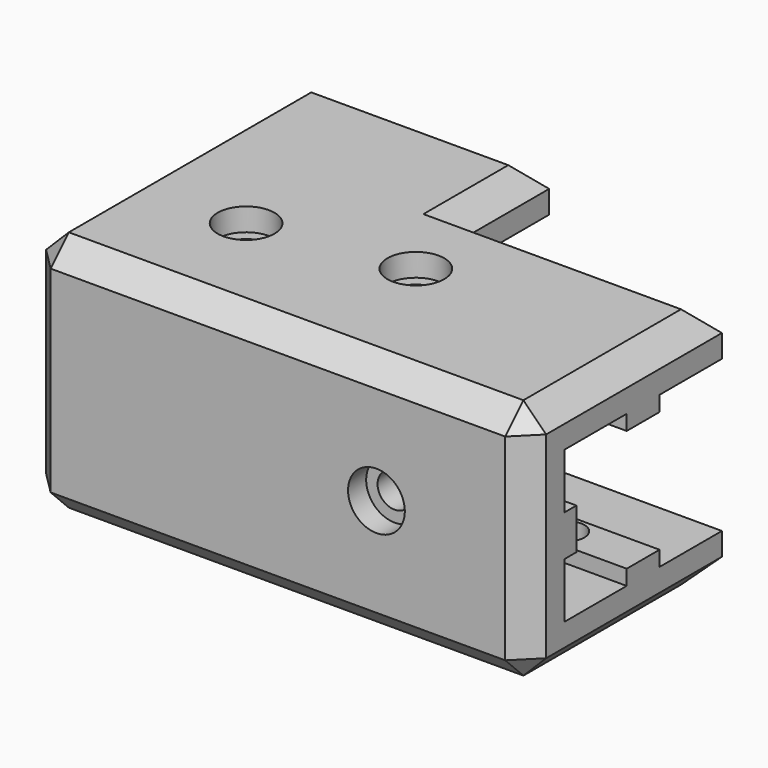
from build123d import *

# Parameters (mm, degrees)
F1_DEPTH  = 6
F3_DEPTH  = 20
F5_DEPTH  = 6
F7_DEPTH  = 40
F9_DEPTH  = 40
F10_R     = 2.25
F11_DEPTH = 8
F12_R     = 2.25
F13_DEPTH = 8
F14_R     = 2.25
F15_DEPTH = 8
F16_R     = 2.25
F17_DEPTH = 8
F18_R     = 3.75
F19_DEPTH = 3
F20_R     = 3.75
F21_DEPTH = 3
F22_R     = 3.75
F23_DEPTH = 3
F24_R     = 3.75
F25_DEPTH = 3
F26_SIZE  = 3


with BuildPart() as f1:
    # F0 (on Top) → F1 (new body)
    with BuildSketch(Plane.XY):
        Polygon((26, 40), (3.85853, 40), (-6, 40), (-6, -6), (60, -6), (60, 26), (26, 26), align=None)
    extrude(amount=F1_DEPTH)

    # F2 (on face) → F3 (join)
    with BuildSketch(Plane.XY.offset(6)):
        Polygon((0, 40), (-6, 40), (-6, -6), (60, -6), (60, 0), (0, 0), align=None)
    extrude(amount=F3_DEPTH)

    # F4 (on face) → F5 (join)
    with BuildSketch(Plane.XY.offset(26)):
        Polygon((-6, 40), (-6, -6), (60, -6), (60, 26), (26, 26), (26, 40), align=None)
    extrude(amount=F5_DEPTH)

    # F6 (on face) → F7 (join)
    with BuildSketch(Plane.YZ.offset(60)):
        Polygon((15.71, 26), (13, 26), (10.29, 26), (10.29, 24), (15.71, 24), align=None)
        Polygon((10.29, 6), (13, 6), (15.71, 6), (15.71, 8), (10.29, 8), align=None)
        Polygon((0, 18.71), (0, 16), (0, 13.29), (2, 13.29), (2, 18.71), align=None)
    extrude(amount=-F7_DEPTH)

    # F8 (on face) → F9 (join)
    with BuildSketch(Plane(origin=(0, 40, 0), x_dir=(-1, 0, 0), z_dir=(0, 1, 0))):
        Polygon((0, 13.29), (0, 16), (0, 18.71), (-2, 18.71), (-2, 13.29), align=None)
        Polygon((-7.29, 26), (-10, 26), (-12.71, 26), (-12.71, 24), (-7.29, 24), align=None)
        Polygon((-12.71, 6), (-10, 6), (-7.29, 6), (-7.29, 8), (-12.71, 8), align=None)
    extrude(amount=-F9_DEPTH)

    # F10 (on face) → F11 (cut, through all)
    with BuildSketch(Plane(origin=(0, 0, 0), x_dir=(1, 0, 0), z_dir=(0, 0, -1))):
        with Locations((50, -13)):
            Circle(F10_R)
        with Locations((10, -30)):
            Circle(F10_R)
    extrude(amount=-F11_DEPTH, mode=Mode.SUBTRACT)

    # F12 (on face) → F13 (cut, through all)
    with BuildSketch(Plane.XY.offset(32)):
        with Locations((10, 10)):
            Circle(F12_R)
        with Locations((30, 13)):
            Circle(F12_R)
    extrude(amount=-F13_DEPTH, mode=Mode.SUBTRACT)

    # F14 (on face) → F15 (cut, through all)
    with BuildSketch(Plane.XZ.offset(6)):
        with Locations((40, 16)):
            Circle(F14_R)
    extrude(amount=-F15_DEPTH, mode=Mode.SUBTRACT)

    # F16 (on face) → F17 (cut, through all)
    with BuildSketch(Plane(origin=(-6, 0, 0), x_dir=(0, -1, 0), z_dir=(-1, 0, 0))):
        with Locations((-20, 16)):
            Circle(F16_R)
    extrude(amount=-F17_DEPTH, mode=Mode.SUBTRACT)

    # F18 (on face) → F19 (cut)
    with BuildSketch(Plane.XY.offset(32)):
        with Locations((10, 10)):
            Circle(F18_R)
        with Locations((30, 13)):
            Circle(F18_R)
    extrude(amount=-F19_DEPTH, mode=Mode.SUBTRACT)

    # F20 (on face) → F21 (cut)
    with BuildSketch(Plane(origin=(-6, 0, 0), x_dir=(0, -1, 0), z_dir=(-1, 0, 0))):
        with Locations((-20, 16)):
            Circle(F20_R)
    extrude(amount=-F21_DEPTH, mode=Mode.SUBTRACT)

    # F22 (on face) → F23 (cut)
    with BuildSketch(Plane(origin=(0, 0, 0), x_dir=(1, 0, 0), z_dir=(0, 0, -1))):
        with Locations((10, -30)):
            Circle(F22_R)
        with Locations((50, -13)):
            Circle(F22_R)
    extrude(amount=-F23_DEPTH, mode=Mode.SUBTRACT)

    # F24 (on face) → F25 (cut)
    with BuildSketch(Plane.XZ.offset(6)):
        with Locations((40, 16)):
            Circle(F24_R)
    extrude(amount=-F25_DEPTH, mode=Mode.SUBTRACT)

    # F26
    f26_edges = [f1.edges().sort_by_distance(p)[0] for p in [
        (27, -6, 0),
        (43, 26, 0),
        (26, 33, 0),
        (10, 40, 0),
        (-6, 17, 0),
        (-6, -6, 16),
        (27, -6, 32),
        (-6, 17, 32),
        (10, 40, 32),
        (26, 33, 32),
        (43, 26, 32),
        (60, 10, 32),
        (60, 10, 0),
        (-6, 40, 16),
        (60, -6, 16),
    ]]
    chamfer(f26_edges, length=F26_SIZE)


solid = f1.part
